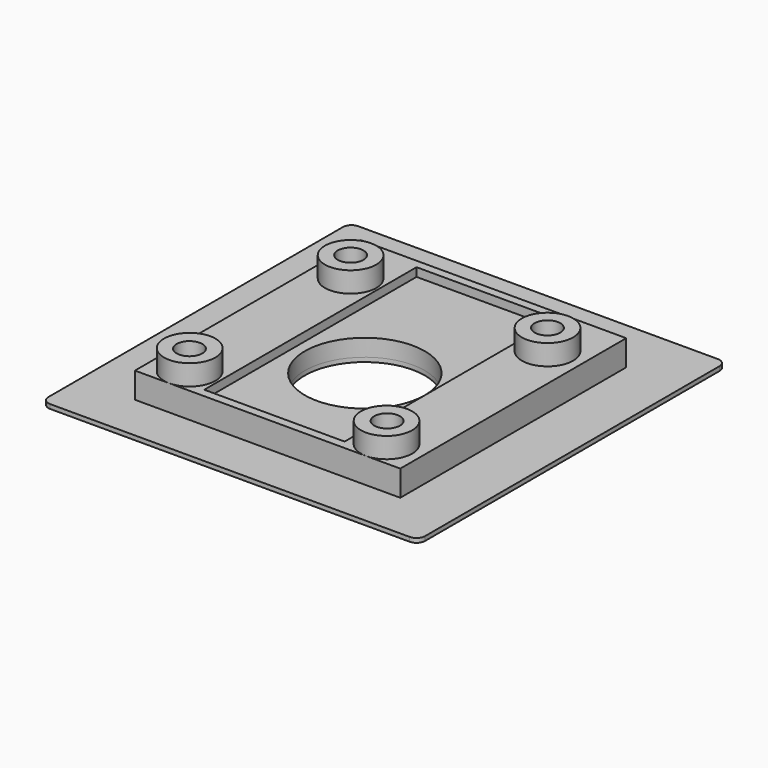
from build123d import *

# Parameters (mm, degrees)
F0_W      = 31
F0_H      = 33
F1_DEPTH  = 2
F2_R      = 3
F3_DEPTH  = 2.4
F4_W      = 16.4
F4_H      = 31
F5_DEPTH  = 1
F6_R      = 1.5
F7_DEPTH  = 3.4
F8_R      = 1.5
F9_DEPTH  = 3.4
F10_R     = 7
F11_DEPTH = 25
F12_DEPTH = 1
F13_W     = 44
F13_H     = 45
F13_W_2   = 31
F13_H_2   = 33
F13_R     = 7
F14_DEPTH = 0.5
F15_R     = 1


with BuildPart() as f1:
    # F0 (on Top) → F1 (new body)
    with BuildSketch(Plane.XY):
        with Locations((15.5, 16.5)):
            Rectangle(F0_W, F0_H)
    extrude(amount=F1_DEPTH)

    # F2 (on face) → F3 (join)
    with BuildSketch(Plane.XY.offset(2)):
        with Locations((4, 3)):
            Circle(F2_R)
        with Locations((4, 26.5)):
            Circle(F2_R)
        with Locations((27, 26.5)):
            Circle(F2_R)
        with Locations((27, 3)):
            Circle(F2_R)
    extrude(amount=F3_DEPTH)

    # F4 (on face) → F5 (cut)
    with BuildSketch(Plane.XY.offset(2)):
        with Locations((15.5, 16.5)):
            Rectangle(F4_W, F4_H)
    extrude(amount=-F5_DEPTH, mode=Mode.SUBTRACT)

    # F6 (on face) → F7 (cut)
    with BuildSketch(Plane.XY.offset(4.4)):
        with Locations((27, 26.5)):
            Circle(F6_R)
    extrude(amount=-F7_DEPTH, mode=Mode.SUBTRACT)

    # F8 (on face) → F9 (cut)
    with BuildSketch(Plane.XY.offset(4.4)):
        with Locations((4, 26.5)):
            Circle(F8_R)
        with Locations((4.0643862449, 2.8885749634)):
            Circle(F8_R)
        with Locations((27.0567759871, 3.0037942342)):
            Circle(F8_R)
    extrude(amount=-F9_DEPTH, mode=Mode.SUBTRACT)

    # F10 (on face) → F11 (cut)
    with BuildSketch(Plane.XY.offset(1)):
        with Locations((15.5, 14.2)):
            Circle(F10_R)
    extrude(amount=-F11_DEPTH, mode=Mode.SUBTRACT)

    # F12 (add): a face of the model
    f12_faces = [f1.faces().sort_by_distance(p)[0] for p in [
        (0.4527692569, 16.5, 0),
    ]]
    extrude(f12_faces, amount=F12_DEPTH)

    # F13 (on face) → F14 (join)
    with BuildSketch(Plane(origin=(0, 0, -1), x_dir=(1, 0, 0), z_dir=(0, 0, -1))):
        with Locations((15.5, -17)):
            Rectangle(F13_W, F13_H)
        with Locations((15.5, -16.5)):
            Rectangle(F13_W_2, F13_H_2, mode=Mode.SUBTRACT)
        with Locations((15.5, -16.5)):
            Rectangle(F13_W_2, F13_H_2)
        with Locations((15.5, -14.2)):
            Circle(F13_R, mode=Mode.SUBTRACT)
    extrude(amount=F14_DEPTH)

    # F15
    f15_edges = [f1.edges().sort_by_distance(p)[0] for p in [
        (-6.5, -5.5, -1.25),
        (37.5, -5.5, -1.25),
        (37.5, 39.5, -1.25),
        (-6.5, 39.5, -1.25),
    ]]
    fillet(f15_edges, radius=F15_R)


solid = f1.part
